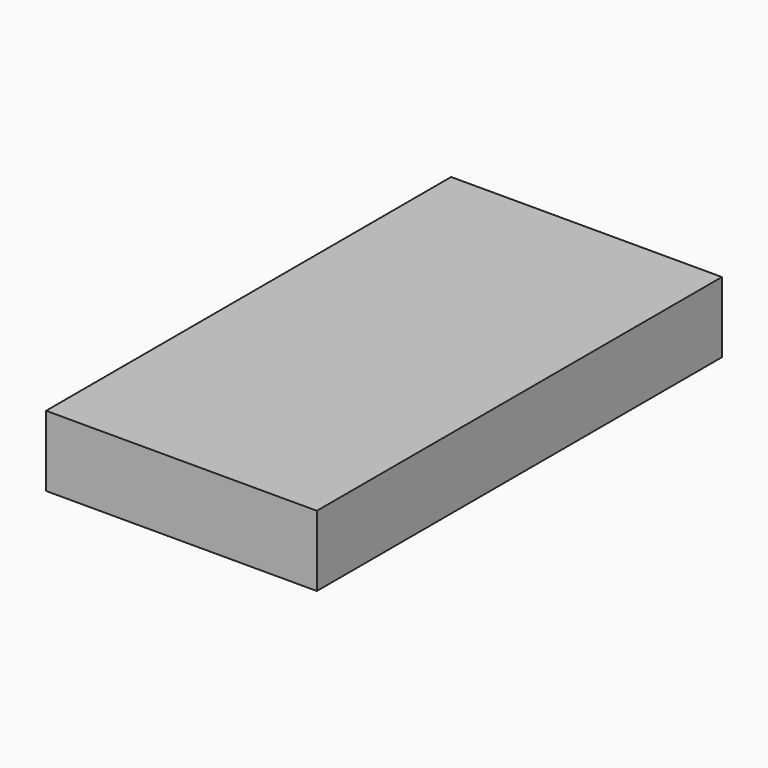
from build123d import *

# Parameters (mm, degrees)
BOX004_W          = 115
BOX004_H          = 215
BOX004_DEPTH      = 30
CYLINDER011_R     = 2.1
CYLINDER011_DEPTH = 40
CYLINDER012_R     = 2.1
CYLINDER012_DEPTH = 40
CYLINDER013_R     = 2.1
CYLINDER013_DEPTH = 40
CYLINDER010_R     = 2.1
CYLINDER010_DEPTH = 40


with BuildPart() as cube004:
    # Box004 → Box004 (new body)
    with BuildSketch(Plane.XY):
        with Locations((57.5, 107.5)):
            Rectangle(BOX004_W, BOX004_H)
    extrude(amount=BOX004_DEPTH)


with BuildPart() as cylinder001:
    # Cylinder011 → Cylinder011 (new body)
    with BuildSketch(Plane(origin=(32.5, 182.5, 0), x_dir=(1, 0, 0), z_dir=(0, 0, 1))):
        Circle(CYLINDER011_R)
    extrude(amount=CYLINDER011_DEPTH)


with BuildPart() as cylinder002:
    # Cylinder012 → Cylinder012 (new body)
    with BuildSketch(Plane(origin=(82.5, 182.5, 0), x_dir=(1, 0, 0), z_dir=(0, 0, 1))):
        Circle(CYLINDER012_R)
    extrude(amount=CYLINDER012_DEPTH)


with BuildPart() as cylinder003:
    # Cylinder013 → Cylinder013 (new body)
    with BuildSketch(Plane(origin=(82.5, 32.5, 0), x_dir=(1, 0, 0), z_dir=(0, 0, 1))):
        Circle(CYLINDER013_R)
    extrude(amount=CYLINDER013_DEPTH)


with BuildPart() as obj1:
    # Cylinder010 → Cylinder010 (new body)
    with BuildSketch(Plane(origin=(32.5, 32.5, 0), x_dir=(1, 0, 0), z_dir=(0, 0, 1))):
        Circle(CYLINDER010_R)
    extrude(amount=CYLINDER010_DEPTH)

    # Fusion005: union Cylinder001, Cylinder002, Cylinder003
    add(cylinder001.part)
    add(cylinder002.part)
    add(cylinder003.part)


with BuildPart() as obj1_1:
    # Fusion005 placement: moved
    add(obj1.part.moved(Location((0, 0, -10))))

    # Fusion006: union Cube004
    add(cube004.part)


with BuildPart() as obj1_2:
    # Fusion006 placement: moved
    add(obj1_1.part.moved(Location((2.5, 15, 0))))


solid = obj1_2.part
